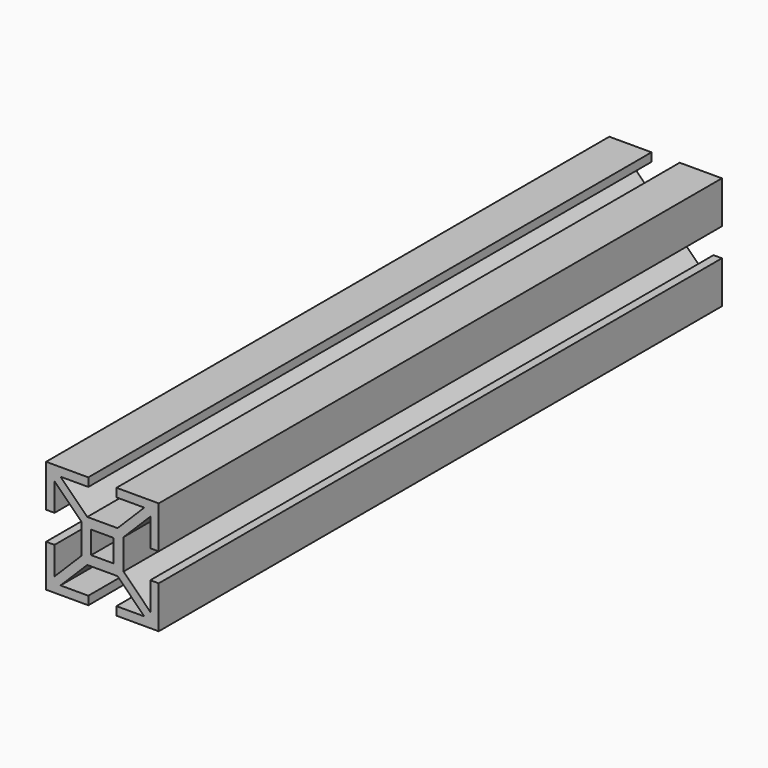
from build123d import *

# Parameters (mm, degrees)
F0_W     = 8
F0_H     = 8
F1_DEPTH = 125


with BuildPart() as f1:
    # F0 (on Front) → F1 (new body, symmetric)
    with BuildSketch(Plane.XZ):
        Polygon((-5, 17), (-5, 20), (-20, 20), (-20, 5), (-17, 5), (-17, 14.87868), (-17, 17), (-14.87868, 17), align=None)
        Polygon((-17, -5), (-20, -5), (-20, -20), (-5, -20), (-5, -17), (-14.87868, -17), (-17, -17), (-17, -14.87868), align=None)
        Polygon((20, -20), (20, -5), (17, -5), (17, -14.87868), (17, -17), (14.87868, -17), (5, -17), (5, -20), align=None)
        Polygon((20, 5), (20, 20), (5, 20), (5, 17), (14.87868, 17), (17, 17), (17, 14.87868), (17, 5), align=None)
        Polygon((17, 17), (14.87868, 17), (5.37868, 7.5), (7.5, 7.5), (7.5, 5.37868), (17, 14.87868), align=None)
        Polygon((-5.37868, 7.5), (-14.87868, 17), (-17, 17), (-17, 14.87868), (-7.5, 5.37868), (-7.5, 7.5), align=None)
        Polygon((-7.5, -5.37868), (-17, -14.87868), (-17, -17), (-14.87868, -17), (-5.37868, -7.5), (-7.5, -7.5), align=None)
        Polygon((17, -17), (17, -14.87868), (7.5, -5.37868), (7.5, -7.5), (5.37868, -7.5), (14.87868, -17), align=None)
        Polygon((7.5, 7.5), (5.37868, 7.5), (-5.37868, 7.5), (-7.5, 7.5), (-7.5, 5.37868), (-7.5, -5.37868), (-7.5, -7.5), (-5.37868, -7.5), (5.37868, -7.5), (7.5, -7.5), (7.5, -5.37868), (7.5, 5.37868), align=None)
        Rectangle(F0_W, F0_H, mode=Mode.SUBTRACT)
    extrude(amount=F1_DEPTH, both=True)


solid = f1.part
